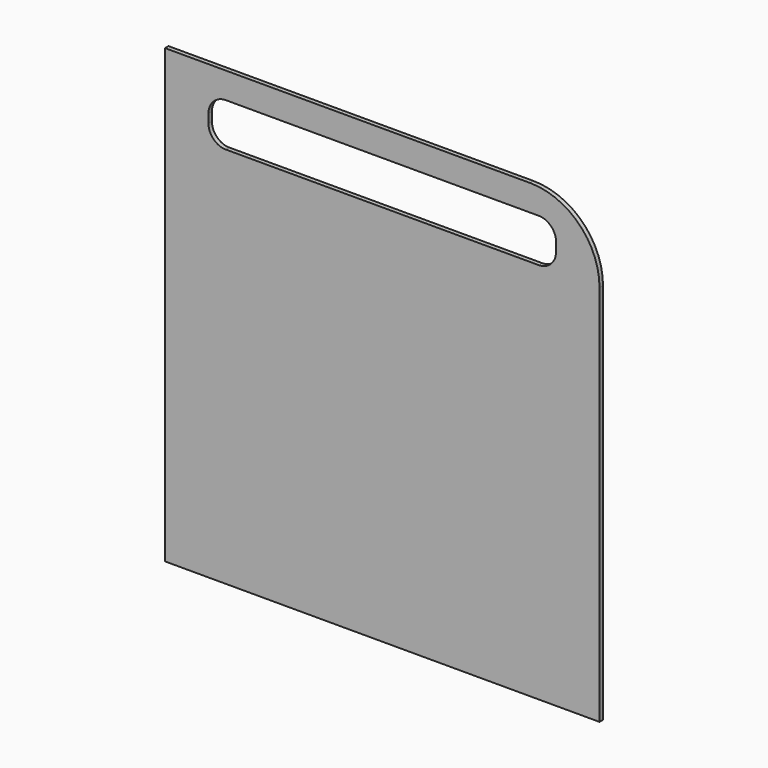
from build123d import *

# Parameters (mm, degrees)
F1_DEPTH = 10


with BuildPart() as f1:
    # F0 (on Front) → F1 (new body)
    with BuildSketch(Plane.XZ):
        with BuildLine():
            Line((348.548785, 693.285159), (-491.451215, 693.285159))
            Line((-491.451215, 693.285159), (-491.451215, -346.714841))
            Line((-491.451215, -346.714841), (508.548785, -346.714841))
            Line((508.548785, -346.714841), (508.548785, 533.285159))
            ThreePointArc((508.548785, 533.285159), (461.68587, 646.422244), (348.548785, 693.285159))
        make_face()
        with BuildLine():
            ThreePointArc((-391.451215, 593.285159), (-379.735486, 621.569431), (-351.451215, 633.285159))
            Line((-351.451215, 633.285159), (368.548785, 633.285159))
            ThreePointArc((368.548785, 633.285159), (396.833056, 621.569431), (408.548785, 593.285159))
            Line((408.548785, 593.285159), (408.548785, 573.285159))
            ThreePointArc((408.548785, 573.285159), (396.833056, 545.000888), (368.548785, 533.285159))
            Line((368.548785, 533.285159), (-351.451215, 533.285159))
            ThreePointArc((-351.451215, 533.285159), (-379.735486, 545.000888), (-391.451215, 573.285159))
            Line((-391.451215, 573.285159), (-391.451215, 593.285159))
        make_face(mode=Mode.SUBTRACT)
    extrude(amount=F1_DEPTH)


solid = f1.part
